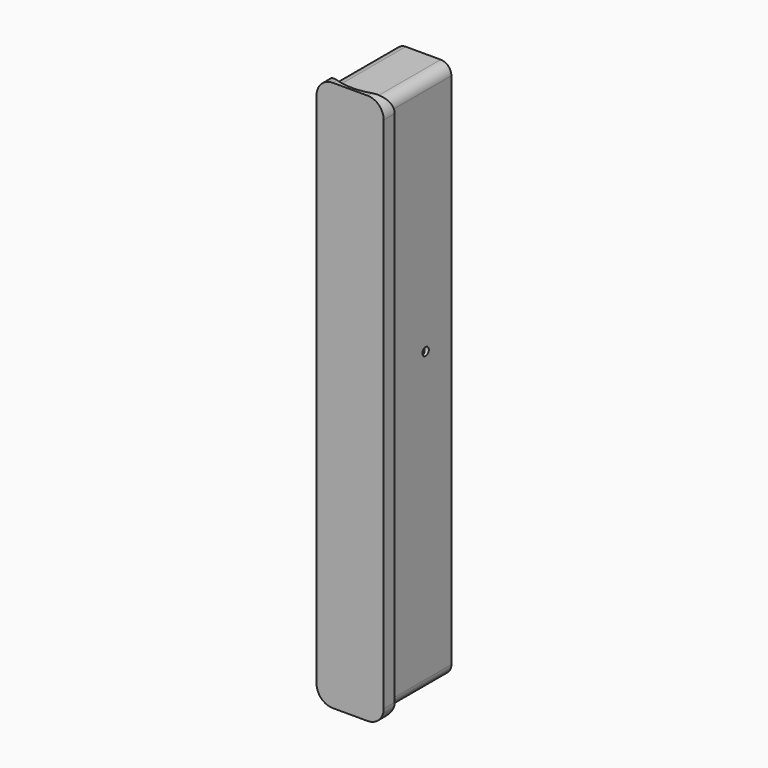
from build123d import *

# Parameters (mm, degrees)
F2_DEPTH      = 6
F3_R          = 21
F4_DEPTH      = 102.501
F4_DEPTH_BACK = 102.501
F5_DEPTH      = 28
F5_DEPTH_BACK = 5
F6_R          = 10.25
F7_DEPTH      = 30.3
F9_D          = 3


with BuildPart() as f2:
    # F1 (on Front) → F2 (new body)
    with BuildSketch(Plane.XZ):
        with BuildLine():
            ThreePointArc((6.5, -102.5), (10.7426406871, -100.7426406871), (12.5, -96.5))
            Line((12.5, -96.5), (12.5, 96.5))
            ThreePointArc((12.5, 96.5), (10.7426406871, 100.7426406871), (6.5, 102.5))
            Line((6.5, 102.5), (-6.5, 102.5))
            ThreePointArc((-6.5, 102.5), (-10.7426406871, 100.7426406871), (-12.5, 96.5))
            Line((-12.5, 96.5), (-12.5, -96.5))
            ThreePointArc((-12.5, -96.5), (-10.7426406871, -100.7426406871), (-6.5, -102.5))
            Line((-6.5, -102.5), (6.5, -102.5))
        make_face()
    extrude(amount=F2_DEPTH)

    # F3 (on Top) → F4 (cut, two sides)
    with BuildSketch(Plane.XY) as f4_sk:
        with Locations((0, 16)):
            Circle(F3_R)
    extrude(amount=-F4_DEPTH, mode=Mode.SUBTRACT)
    extrude(f4_sk.sketch, amount=F4_DEPTH_BACK, mode=Mode.SUBTRACT)

    # F0 (on Front) → F5 (join, two sides)
    with BuildSketch(Plane.XZ) as f5_sk:
        with BuildLine():
            Line((-6.5, -100.5), (6.5, -100.5))
            ThreePointArc((6.5, -100.5), (9.3284271247, -99.3284271247), (10.5, -96.5))
            Line((10.5, -96.5), (10.5, 96.5))
            ThreePointArc((10.5, 96.5), (9.3284271247, 99.3284271247), (6.5, 100.5))
            Line((6.5, 100.5), (-6.5, 100.5))
            ThreePointArc((-6.5, 100.5), (-9.3284271247, 99.3284271247), (-10.5, 96.5))
            Line((-10.5, 96.5), (-10.5, -96.5))
            ThreePointArc((-10.5, -96.5), (-9.3284271247, -99.3284271247), (-6.5, -100.5))
        make_face()
    extrude(amount=-F5_DEPTH)
    extrude(f5_sk.sketch, amount=F5_DEPTH_BACK)

    # F6 (on face) → F7 (cut)
    with BuildSketch(Plane(origin=(0, 28, 0), x_dir=(-1, 0, 0), z_dir=(0, 1, 0))):
        with Locations((0, 5.5)):
            Circle(F6_R)
    extrude(amount=-F7_DEPTH, mode=Mode.SUBTRACT)

    # F9 (through all)
    with Locations(Plane(origin=(-10.5, 0, 0), x_dir=(0, -1, 0), z_dir=(-1, 0, 0))):
        with Locations((-16, 11)):
            Hole(F9_D / 2)


solid = f2.part
